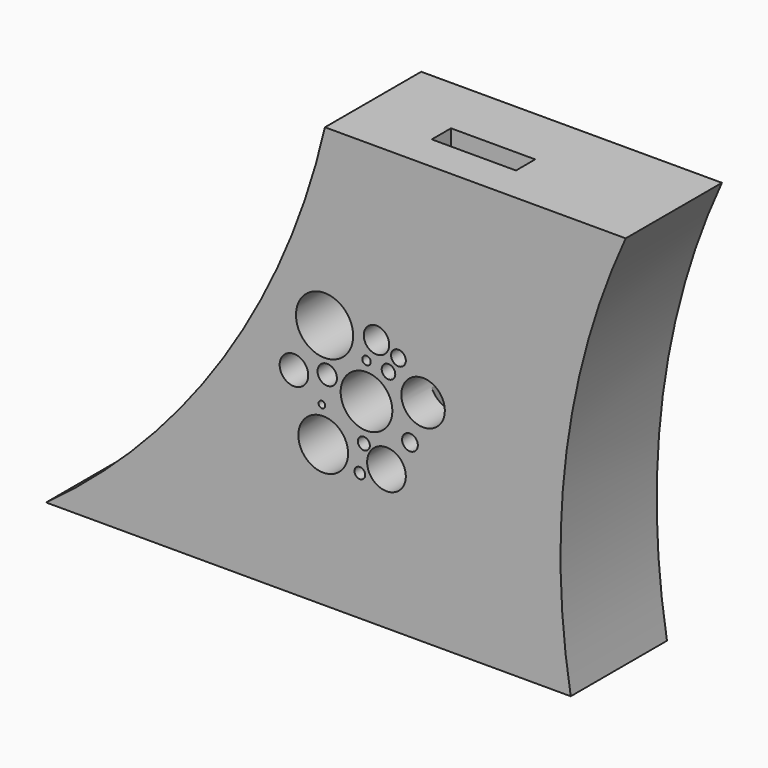
from build123d import *

# Parameters (mm, degrees)
F1_DEPTH = 100
F2_W     = 70
F2_H     = 20
F3_DEPTH = 252
F4_W     = 137.891564
F4_H     = 4.743971
F5_DEPTH = 40
F6_R     = 23.773189
F6_R_2   = 21.492651
F6_R_3   = 20.679115
F6_R_4   = 11.883374
F6_R_5   = 6.549136
F6_R_6   = 16.088576
F6_R_7   = 18.070401
F6_R_8   = 10.573912
F6_R_9   = 6.113208
F6_R_10  = 8.058557
F6_R_11  = 2.767323
F6_R_12  = 4.981171
F6_R_13  = 4.462164
F6_R_14  = 5.644248
F6_R_15  = 3.500411
F7_DEPTH = 357


with BuildPart() as f1:
    # F0 (on Front) → F1 (new body)
    with BuildSketch(Plane.XZ):
        with BuildLine():
            Line((179.331843, 175), (-70.668157, 175))
            ThreePointArc((-70.668157, 175), (-154.979102, -20.939428), (-302.511929, -175))
            Line((-302.511929, -175), (133.648471, -175))
            ThreePointArc((133.648471, -175), (130.170691, 3.43532), (179.331843, 175))
        make_face()
    extrude(amount=F1_DEPTH)

    # F2 (on face) → F3 (cut)
    with BuildSketch(Plane.XY.offset(175)):
        with Locations((29.123203, -60)):
            Rectangle(F2_W, F2_H)
    extrude(amount=-F3_DEPTH, mode=Mode.SUBTRACT)

    # F4 (on face) → F5 (join)
    with BuildSketch(Plane.XZ.offset(100)):
        with Locations((42.198492, 87.131027)):
            Rectangle(F4_W, F4_H)
    extrude(amount=-F5_DEPTH)

    # F6 (on face) → F7 (cut)
    with BuildSketch(Plane.XZ.offset(100)):
        with Locations((-70.998937, 29.887047)):
            Circle(F6_R)
        with Locations((-36.130711, -14.39006)):
            Circle(F6_R_2)
        with Locations((-72.105862, -57.560239)):
            Circle(F6_R_3)
        with Locations((-96.458264, -11.069277)):
            Circle(F6_R_4)
        with Locations((0, -32.654367)):
            Circle(F6_R_5)
        with Locations((-19.526798, -58.667168)):
            Circle(F6_R_6)
        with Locations((10.913723, 0)):
            Circle(F6_R_7)
        with Locations((-27.828749, 33.20783)):
            Circle(F6_R_8)
        with Locations((-9.564446, 26.012801)):
            Circle(F6_R_9)
        with Locations((-68.785071, -5.534639)):
            Circle(F6_R_10)
        with Locations((-73.212788, -28.780119)):
            Circle(F6_R_11)
        with Locations((-38.344566, -45.937501)):
            Circle(F6_R_12)
        with Locations((-41.665345, -68.629518)):
            Circle(F6_R_13)
        with Locations((-17.866395, 13.283132)):
            Circle(F6_R_14)
        with Locations((-36.130711, 15.496987)):
            Circle(F6_R_15)
    extrude(amount=-F7_DEPTH, mode=Mode.SUBTRACT)


solid = f1.part
